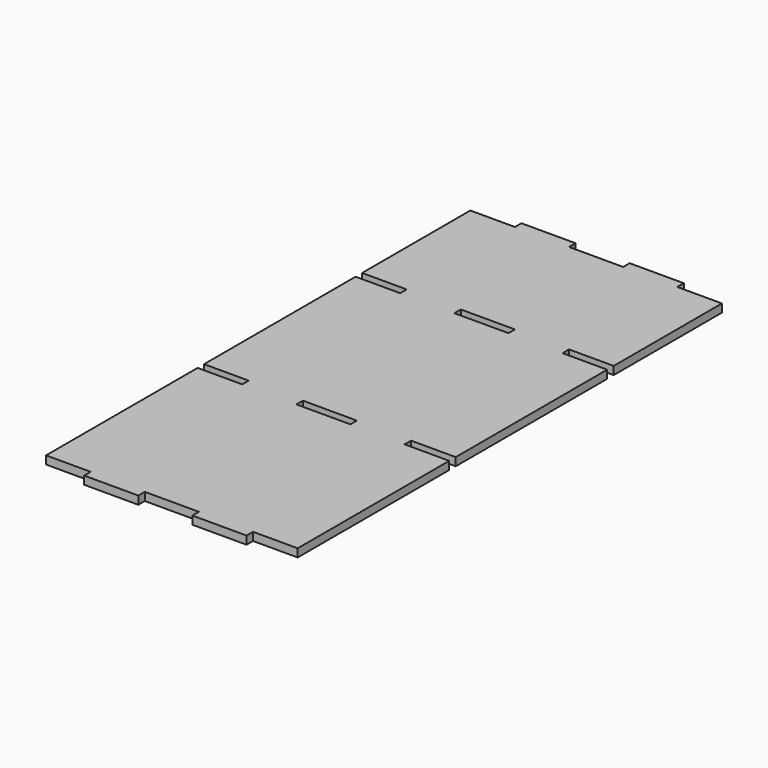
from build123d import *

# Parameters (mm, degrees)
F0_W     = 20
F0_H     = 3
F1_DEPTH = 3


with BuildPart() as f1:
    # F0 (on Top) → F1 (new body)
    with BuildSketch(Plane.XY):
        Polygon((40, 0), (20, 0), (20, -3), (3.5, -3), (3.5, -53), (20, -53), (20, -56), (3.5, -56), (3.5, -126), (20, -126), (20, -129), (3.5, -129), (3.5, -199), (20, -199), (20, -202), (40, -202), (40, -199), (60, -199), (60, -202), (80, -202), (80, -199), (96.5, -199), (96.5, -129), (80, -129), (80, -126), (96.5, -126), (96.5, -56), (80, -56), (80, -53), (96.5, -53), (96.5, -3), (80, -3), (80, 0), (60, 0), (60, -3), (40, -3), align=None)
        with Locations((50, -127.5)):
            Rectangle(F0_W, F0_H, mode=Mode.SUBTRACT)
        with Locations((50, -54.5)):
            Rectangle(F0_W, F0_H, mode=Mode.SUBTRACT)
    extrude(amount=F1_DEPTH)


solid = f1.part
